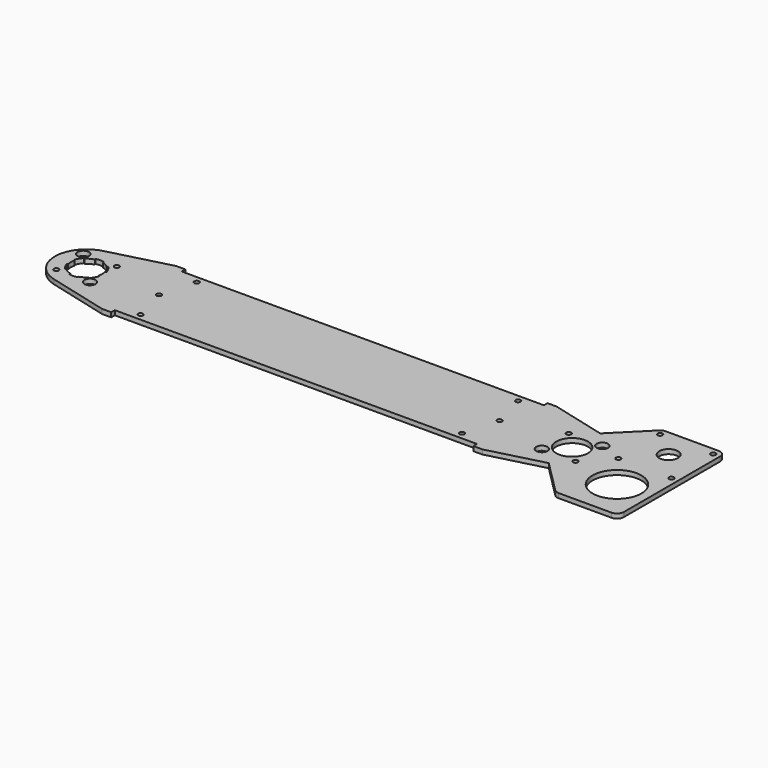
from build123d import *

# Parameters (mm, degrees)
F0_R     = 1.7272
F0_R_2   = 3.96875
F0_R_3   = 17.145
F0_R_4   = 11.1125
F0_R_5   = 6.5875027
F1_DEPTH = 3.175
F3_DEPTH = 3.175
F4_COUNT = 6
F4_ANGLE = 300
F5_R     = 4.7625


with BuildPart() as f1:
    # F0 (on Top) → F1 (new body)
    with BuildSketch(Plane.XY):
        with BuildLine():
            Line((-303.6125627, 32.54375), (-346.1094200534, 21.5120031198))
            ThreePointArc((-346.1094200534, 21.5120031198), (-362.7501254, 0), (-346.1094200534, -21.5120031198))
            Line((-346.1094200534, -21.5120031198), (-303.6125627, -32.54375))
            Line((-303.6125627, -32.54375), (-297.2625627, -32.54375))
            Line((-297.2625627, -32.54375), (-297.2625627, -29.36875))
            Line((-297.2625627, -29.36875), (-43.2625627, -29.36875))
            Line((-43.2625627, -29.36875), (-43.2625627, -32.54375))
            Line((-43.2625627, -32.54375), (-36.9125627, -32.54375))
            Line((-36.9125627, -32.54375), (1.6456052558, -22.5344463586))
            Line((1.6456052558, -22.5344463586), (24.6620081426, -45.5508492454))
            ThreePointArc((24.6620081426, -45.5508492454), (26.2070743414, -46.5832294736), (28.029604188, -46.9457532))
            Line((28.029604188, -46.9457532), (69.9924832184, -46.9457532))
            Line((69.9924832184, -46.9457532), (69.9924832184, 46.9457532))
            Line((69.9924832184, 46.9457532), (28.029604188, 46.9457532))
            ThreePointArc((28.029604188, 46.9457532), (26.2070743414, 46.5832294736), (24.6620081426, 45.5508492454))
            Line((24.6620081426, 45.5508492454), (1.6456052558, 22.5344463586))
            Line((1.6456052558, 22.5344463586), (-36.9125627, 32.54375))
            Line((-36.9125627, 32.54375), (-43.2625627, 32.54375))
            Line((-43.2625627, 32.54375), (-43.2625627, 29.36875))
            Line((-43.2625627, 29.36875), (-297.2625627, 29.36875))
            Line((-297.2625627, 29.36875), (-297.2625627, 32.54375))
            Line((-297.2625627, 32.54375), (-303.6125627, 32.54375))
        make_face()
        with Locations((-282.9750627, -24.60625)):
            Circle(F0_R, mode=Mode.SUBTRACT)
        with Locations((-352.3117115589, -11.7865861589)):
            Circle(F0_R, mode=Mode.SUBTRACT)
        with Locations((-328.7385392411, -11.7865861589)):
            Circle(F0_R_2, mode=Mode.SUBTRACT)
        with Locations((-57.5500627, -24.60625)):
            Circle(F0_R, mode=Mode.SUBTRACT)
        with Locations((-11.7865861589, -11.7865861589)):
            Circle(F0_R_2, mode=Mode.SUBTRACT)
        with Locations((11.7865861589, -11.7865861589)):
            Circle(F0_R, mode=Mode.SUBTRACT)
        with Locations((46.6297937032, -18.95475)):
            Circle(F0_R_3, mode=Mode.SUBTRACT)
        with Locations((-340.5251254, 0)):
            Circle(F0_R_4, mode=Mode.SUBTRACT)
        with Locations((-289.7251254, 0)):
            Circle(F0_R, mode=Mode.SUBTRACT)
        with Locations((-352.3117115589, 11.7865861589)):
            Circle(F0_R_2, mode=Mode.SUBTRACT)
        with Locations((-328.7385392411, 11.7865861589)):
            Circle(F0_R, mode=Mode.SUBTRACT)
        with Locations((-282.9750627, 24.60625)):
            Circle(F0_R, mode=Mode.SUBTRACT)
        with Locations((-50.8, 0)):
            Circle(F0_R, mode=Mode.SUBTRACT)
        Circle(F0_R_4, mode=Mode.SUBTRACT)
        with Locations((28.029604188, 5.55625)):
            Circle(F0_R, mode=Mode.SUBTRACT)
        with Locations((65.2299832184, 5.55625)):
            Circle(F0_R, mode=Mode.SUBTRACT)
        with Locations((-11.7865861589, 11.7865861589)):
            Circle(F0_R, mode=Mode.SUBTRACT)
        with Locations((11.7865861589, 11.7865861589)):
            Circle(F0_R_2, mode=Mode.SUBTRACT)
        with Locations((-57.5500627, 24.60625)):
            Circle(F0_R, mode=Mode.SUBTRACT)
        with Locations((46.6297937032, 26.32075)):
            Circle(F0_R_5, mode=Mode.SUBTRACT)
        with Locations((28.029604188, 42.1832532)):
            Circle(F0_R, mode=Mode.SUBTRACT)
        with Locations((65.2299832184, 42.1832532)):
            Circle(F0_R, mode=Mode.SUBTRACT)
    extrude(amount=F1_DEPTH)

    # F2 (on face) → F3 (cut, through all)
    with BuildSketch(Plane(origin=(0, 0, 0), x_dir=(1, 0, 0), z_dir=(0, 0, -1))):
        with BuildLine():
            ThreePointArc((-348.3828495059, -7.8577241059), (-350.1488326996, -5.55625), (-351.2589761446, -2.8761266387))
            Line((-351.2589761446, -2.8761266387), (-352.0256797693, -3.0815642558))
            ThreePointArc((-352.0256797693, -3.0815642558), (-350.8362403638, -5.953125), (-348.9441155135, -8.4189901135))
            Line((-348.9441155135, -8.4189901135), (-348.3828495059, -7.8577241059))
        make_face()
    f3 = extrude(amount=-F3_DEPTH, mode=Mode.SUBTRACT)

    # F4: F3 ×6 about axis
    f4_axis = Axis((-340.5251254, 0, 0), (0, 0, -1))
    for i in range(1, F4_COUNT):
        add(f3.rotate(f4_axis, i * F4_ANGLE / (F4_COUNT - 1)), mode=Mode.SUBTRACT)

    # F5
    f5_edges = [f1.edges().sort_by_distance(p)[0] for p in [
        (69.992483, 46.945753, 1.5875),
        (69.992483, -46.945753, 1.5875),
    ]]
    fillet(f5_edges, radius=F5_R)


solid = f1.part
